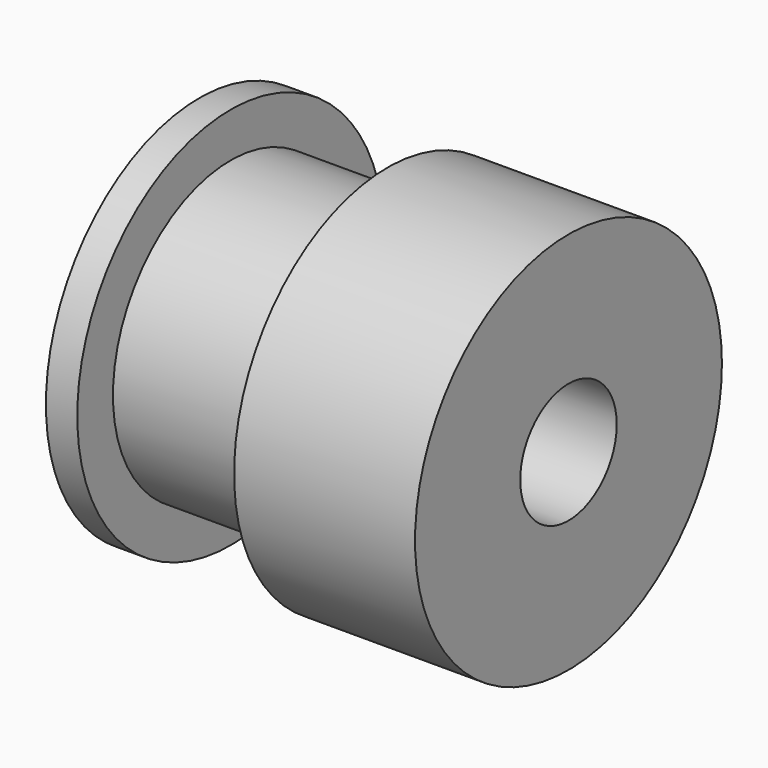
from build123d import *

# Parameters (mm, degrees)
CYLINDER271_R          = 2.5
CYLINDER271_DEPTH      = 19.2
CYLINDER272_R          = 6.1
CYLINDER272_DEPTH      = 7.2
CYLINDER273_R          = 7.95
CYLINDER273_DEPTH      = 1.3
CYLINDER270_R          = 7.95
CYLINDER270_DEPTH      = 7.5
CUT197_ROLL_ANGLE      = -90
CUT197_PLACEMENT_ANGLE = 90


with BuildPart() as cylinder271:
    # Cylinder271 → Cylinder271 (new body)
    with BuildSketch(Plane.XY.offset(-2)):
        Circle(CYLINDER271_R)
    extrude(amount=CYLINDER271_DEPTH)


with BuildPart() as cylinder272:
    # Cylinder272 → Cylinder272 (new body)
    with BuildSketch(Plane.XY.offset(7)):
        Circle(CYLINDER272_R)
    extrude(amount=CYLINDER272_DEPTH)


with BuildPart() as cylinder273:
    # Cylinder273 → Cylinder273 (new body)
    with BuildSketch(Plane.XY.offset(14)):
        Circle(CYLINDER273_R)
    extrude(amount=CYLINDER273_DEPTH)


with BuildPart() as cut197:
    # Cylinder270 → Cylinder270 (new body)
    with BuildSketch(Plane.XY):
        Circle(CYLINDER270_R)
    extrude(amount=CYLINDER270_DEPTH)

    # Fusion105: union Cylinder272, Cylinder273
    add(cylinder272.part)
    add(cylinder273.part)

    # Cut197: cut Cylinder271
    add(cylinder271.part, mode=Mode.SUBTRACT)


with BuildPart() as cut197_1:
    # Cut197 roll: moved
    add(cut197.part.rotate(Axis((0, 0, 0), (1, 0, 0)), CUT197_ROLL_ANGLE))


with BuildPart() as cut197_2:
    # Cut197 placement: moved
    add(cut197_1.part.moved(Location((88.85, 182.14, 155.15))).rotate(Axis((88.85, 182.14, 155.15), (0, 0, 1)), CUT197_PLACEMENT_ANGLE))


solid = cut197_2.part
